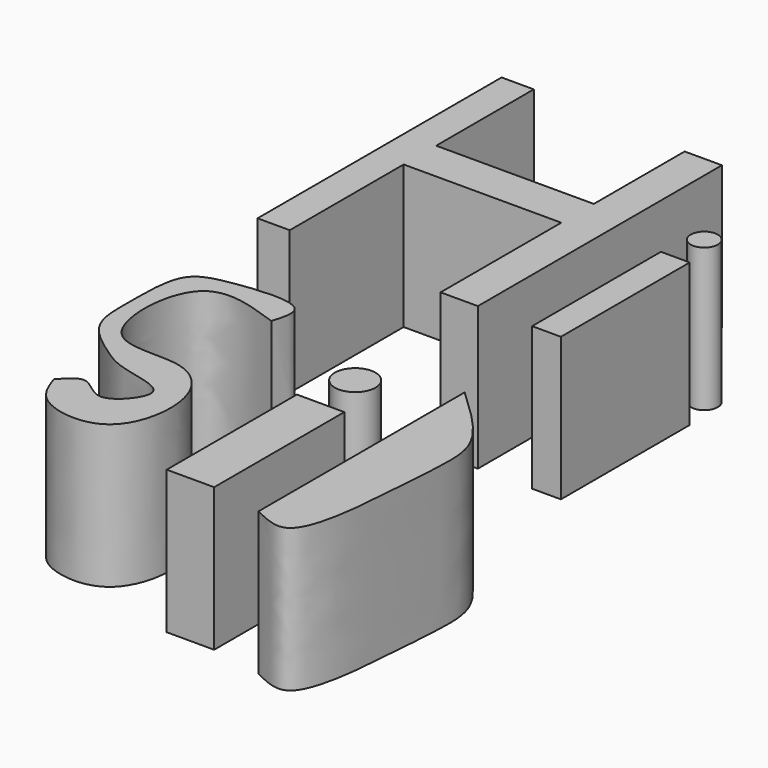
from build123d import *

# Parameters (mm, degrees)
F0_W     = 27.9734246433
F0_H     = 7.2189457715
F1_DEPTH = 25.4
F2_W     = 5.113421008
F2_H     = 28.5750003532
F3_DEPTH = 25.4
F2_R     = 2.406315878
F2_W_2   = 8.4221027792
F2_H_2   = 28.8757905364
F2_R_2   = 3.6094728857


with BuildPart() as f1:
    # F0 (on Top) → F1 (new body)
    with BuildSketch(Plane.XY):
        Polygon((-64.9705305696, 66.1736875772), (-70.6855282187, 66.1736875772), (-70.6855282187, 12.0315784588), (-64.9705305696, 12.0315784588), (-64.9705305696, 37.2978970408), (-64.9705305696, 44.5168428123), align=None)
        with Locations((-50.9838182479, 40.9073699266)):
            Rectangle(F0_W, F0_H)
        Polygon((-36.9971059263, 64.6697357297), (-36.9971059263, 44.5168428123), (-36.9971059263, 37.2978970408), (-36.9971059263, 10.5276321992), (-30.379736796, 10.5276321992), (-30.379736796, 64.6697357297), align=None)
    extrude(amount=F1_DEPTH)


with BuildPart() as f3:
    # F2 (on Top) → F3 (new body)
    with BuildSketch(Plane.XY):
        with Locations((-18.1977627799, 24.8151323758)):
            Rectangle(F2_W, F2_H)
    extrude(amount=F3_DEPTH)


with BuildPart() as f3b:
    # F2 (on Top) → F3, piece 2 (new body)
    with BuildSketch(Plane.XY):
        with Locations((-18.3481574059, 45.7200035453)):
            Circle(F2_R)
    extrude(amount=F3_DEPTH)


with BuildPart() as f3c:
    # F2 (on Top) → F3, piece 3 (new body)
    with BuildSketch(Plane.XY):
        with BuildLine():
            add(Edge.make_bspline(
                [(-49.9310530722, -10.8284214512), (-55.2439201499, -8.9571682182), (-66.4279710862, -5.0180161247), (-67.2049345546, -31.5497947234), (-50.7686982369, -26.8166171956), (-42.8842988312, -36.3341619068), (-46.1212790245, -52.1087916759), (-60.165105182, -50.2961550036), (-61.8256244969, -45.4632985081), (-62.5642091036, -43.3136858046)],
                knots=[0, 0, 0, 0, 0.1539309472, 0.3240381377, 0.4705233809, 0.6056535146, 0.7555602361, 0.8912753105, 1, 1, 1, 1], degree=3))
            add(Edge.make_bspline(
                [(-62.5642091036, -43.3136858046), (-61.3933428315, -42.0056657763), (-58.9512703879, -39.2775321346), (-54.528611117, -45.2613521139), (-49.447427763, -40.2589336981), (-48.9326062397, -36.0833071072), (-57.7643091975, -34.8933711332), (-61.6353950058, -32.3571433154), (-69.0614033915, -27.1187454297), (-68.8002663112, -18.8927819027), (-68.9969447109, -7.3164334513), (-62.3077833164, -5.1377264264), (-47.8069751626, -3.6942665027), (-49.3285487236, -8.8047859901), (-49.9310530722, -10.8284214512)],
                knots=[0, 0, 0, 0, 0.0679120167, 0.1416438995, 0.2187697623, 0.2753195609, 0.3652643321, 0.4400348823, 0.5320999836, 0.6255264682, 0.7301580695, 0.8137963543, 0.9262681022, 1, 1, 1, 1], degree=3))
        make_face()
    extrude(amount=F3_DEPTH)


with BuildPart() as f3d:
    # F2 (on Top) → F3, piece 4 (new body)
    with BuildSketch(Plane.XY):
        with Locations((-29.1765797883, -40.3057895601)):
            Rectangle(F2_W_2, F2_H_2)
    extrude(amount=F3_DEPTH)


with BuildPart() as f3e:
    # F2 (on Top) → F3, piece 5 (new body)
    with BuildSketch(Plane.XY):
        with Locations((-29.7781582922, -17.4457896501)):
            Circle(F2_R_2)
    extrude(amount=F3_DEPTH)


with BuildPart() as f3f:
    # F2 (on Top) → F3, piece 6 (new body)
    with BuildSketch(Plane.XY):
        with BuildLine():
            add(Edge.make_bspline(
                [(-15.6410522759, -10.8284214512), (-11.5595377829, -14.6186756728), (-4.3952016214, -21.271758843), (-4.3633884822, -30.3193853772), (-5.4032135252, -43.4267319407), (-6.1559785538, -51.7390157438), (-8.8927165892, -59.8614638765), (-13.4068999107, -57.6452602715), (-15.6410522759, -56.5484203398)],
                knots=[0, 0, 0, 0, 0.209556496, 0.3678372782, 0.5632339144, 0.7269643989, 0.8648696585, 1, 1, 1, 1], degree=3))
            Line((-15.6410522759, -10.8284214512), (-15.6410522759, -56.5484203398))
        make_face()
    extrude(amount=F3_DEPTH)


solid = Compound([f1.part, f3.part, f3b.part, f3c.part, f3d.part, f3e.part, f3f.part])
